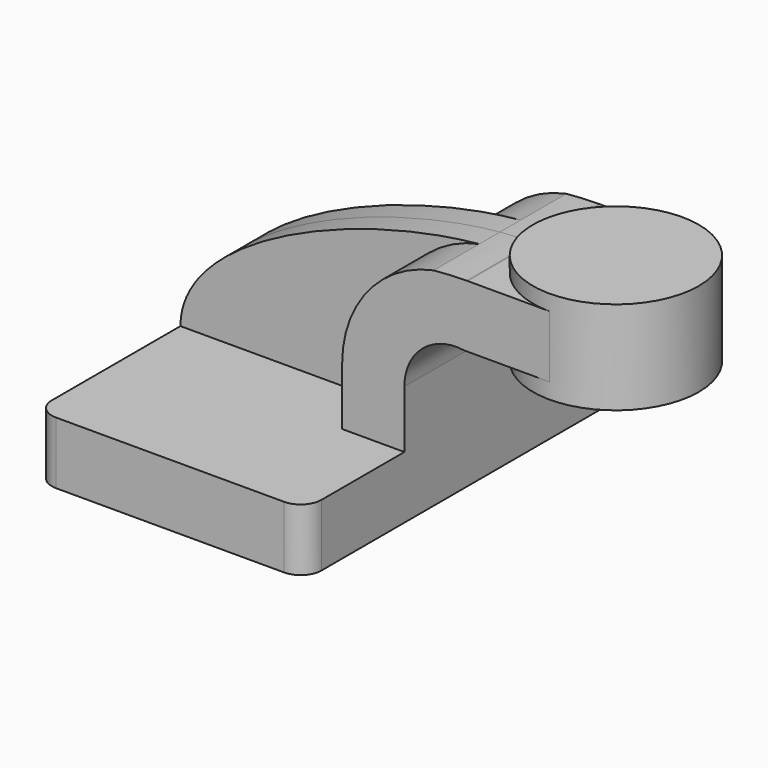
from build123d import *

# Parameters (mm, degrees)
F1_DEPTH = 63.5
F2_DEPTH = 25.4
F3_DEPTH = 7.9375
F5_R     = 6.35


with BuildPart() as f1:
    # F0 (on Front) → F1 (new body, symmetric)
    with BuildSketch(Plane.XZ):
        Polygon((22.225, 9.525), (-41.275, 9.525), (-41.275, -9.525), (41.275, -9.525), (41.275, 9.525), align=None)
    extrude(amount=F1_DEPTH, both=True)

    # F0 (on Front) → F2 (join, symmetric)
    with BuildSketch(Plane.XZ):
        with BuildLine():
            Line((22.225, 27.176042), (22.225, 9.525))
            Line((22.225, 9.525), (41.275, 9.525))
            Line((41.275, 9.525), (41.275, 27.176042))
            ThreePointArc((41.275, 27.176042), (46.791196, 39.205623), (59.506283, 42.8752))
            Line((59.506283, 42.8752), (60.325, 42.8752))
            Line((60.325, 42.8752), (60.325, 61.924634))
            add(Edge.make_bspline(
                [(50.225098, 61.407626), (53.729785, 61.737464), (57.113469, 61.913471), (60.325, 61.924634)],
                knots=[104.739527, 104.739527, 104.739527, 104.739527, 114.283242, 114.283242, 114.283242, 114.283242], degree=3))
            ThreePointArc((50.225098, 61.407626), (30.116615, 49.288295), (22.225, 27.176042))
        make_face()
        with BuildLine():
            add(Edge.make_bspline(
                [(60.325, 61.924634), (60.43361, 61.925011), (60.542023, 61.9252), (60.650237, 61.9252)],
                knots=[114.283242, 114.283242, 114.283242, 114.283242, 114.605999, 114.605999, 114.605999, 114.605999], degree=3))
            Line((60.325, 61.924634), (60.325, 42.8752))
            Line((60.325, 42.8752), (85.725, 42.8752))
            Line((85.725, 42.8752), (85.725, 61.9252))
            Line((85.725, 61.9252), (60.650237, 61.9252))
        make_face()
    extrude(amount=F2_DEPTH, both=True)

    # F0 (on Front) → F3 (join, symmetric)
    with BuildSketch(Plane.XZ):
        with BuildLine():
            add(Edge.make_bspline(
                [(-41.275, 9.525), (-41.275, 35.639968), (11.762158, 57.787757), (50.225098, 61.407626)],
                knots=[0, 0, 0, 0, 104.739527, 104.739527, 104.739527, 104.739527], degree=3))
            Line((-41.275, 9.525), (22.225, 9.525))
            Line((22.225, 9.525), (22.225, 27.176042))
            ThreePointArc((22.225, 27.176042), (30.116615, 49.288295), (50.225098, 61.407626))
        make_face()
    extrude(amount=F3_DEPTH, both=True)

    # F0 (on Front) → F4 (revolve)
    with BuildSketch(Plane.XZ):
        Polygon((111.125, 66.675), (85.725, 66.675), (85.725, 61.9252), (85.725, 42.8752), (85.725, 38.1), (111.125, 38.1), align=None)
    revolve(axis=Axis((85.725, 0, 52.3875), (0, 0, 1)))

    # F5
    f5_edges = [f1.edges().sort_by_distance(p)[0] for p in [
        (41.275, -63.5, 0),
        (-41.275, -63.5, 0),
        (41.275, 63.5, 0),
        (-41.275, 63.5, 0),
    ]]
    fillet(f5_edges, radius=F5_R)


solid = f1.part
